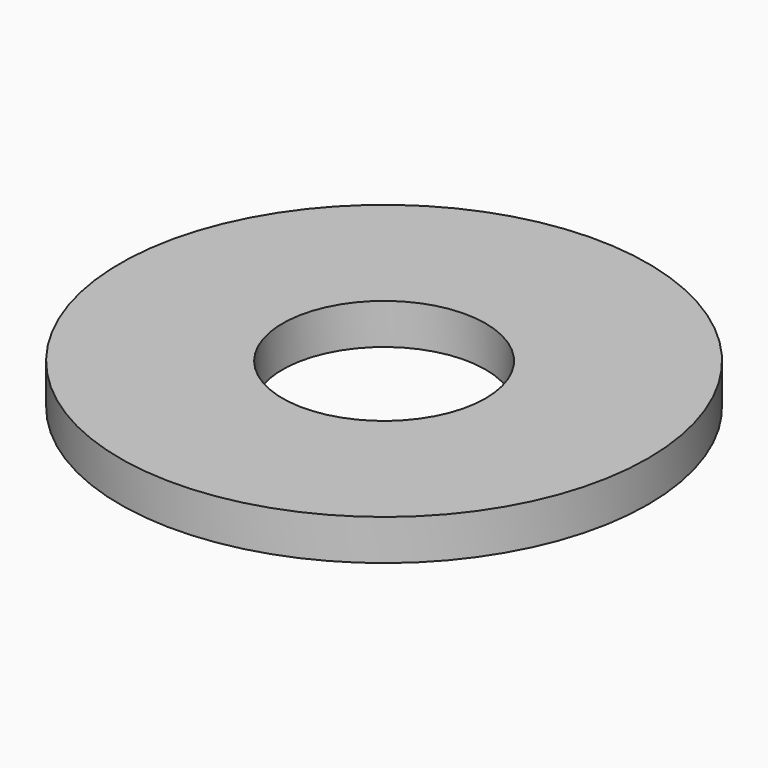
from build123d import *

# Parameters (mm, degrees)
CYLINDER001_R     = 2.5
CYLINDER001_DEPTH = 10
CYLINDER_R        = 6.5
CYLINDER_DEPTH    = 1


with BuildPart() as cilindro001:
    # Cylinder001 → Cylinder001 (new body)
    with BuildSketch(Plane.XY):
        Circle(CYLINDER001_R)
    extrude(amount=CYLINDER001_DEPTH)


with BuildPart() as obj1:
    # Cylinder → Cylinder (new body)
    with BuildSketch(Plane.XY):
        Circle(CYLINDER_R)
    extrude(amount=CYLINDER_DEPTH)

    # Cut: cut Cilindro001
    add(cilindro001.part, mode=Mode.SUBTRACT)


solid = obj1.part
